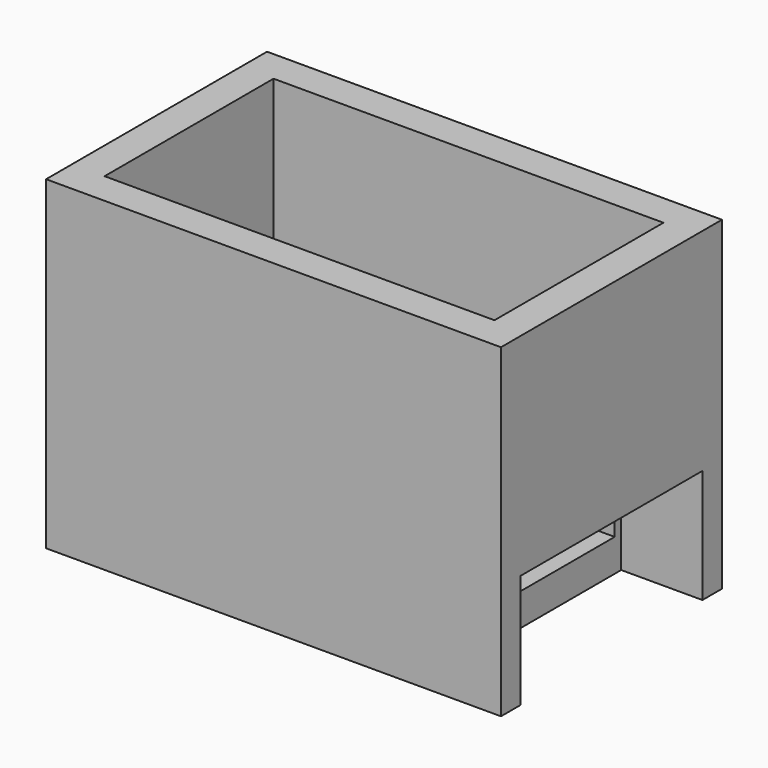
from build123d import *

# Parameters (mm, degrees)
F0_W     = 28
F0_H     = 17
F1_DEPTH = 20
F2_T     = -2
F3_W     = 14
F3_H     = 5
F4_DEPTH = 5
F5_DEPTH = 2


with BuildPart() as f1:
    # F0 (on Top) → F1 (new body)
    with BuildSketch(Plane.XY):
        Rectangle(F0_W, F0_H)
    extrude(amount=F1_DEPTH)

    # F2
    f2_openings = [f1.faces().sort_by_distance(p)[0] for p in [
        (0, 0, 20),
    ]]
    offset(amount=F2_T, openings=f2_openings)

    # F3 (on face) → F4 (cut)
    with BuildSketch(Plane.YZ.offset(14)):
        with Locations((0, 2.5)):
            Rectangle(F3_W, F3_H)
    extrude(amount=-F4_DEPTH, mode=Mode.SUBTRACT)

    # F5 (cut): a face of the model
    f5_faces = [f1.faces().sort_by_distance(p)[0] for p in [
        (12.7580645161, 0, 5),
    ]]
    extrude(f5_faces, amount=-F5_DEPTH, mode=Mode.SUBTRACT)


solid = f1.part
